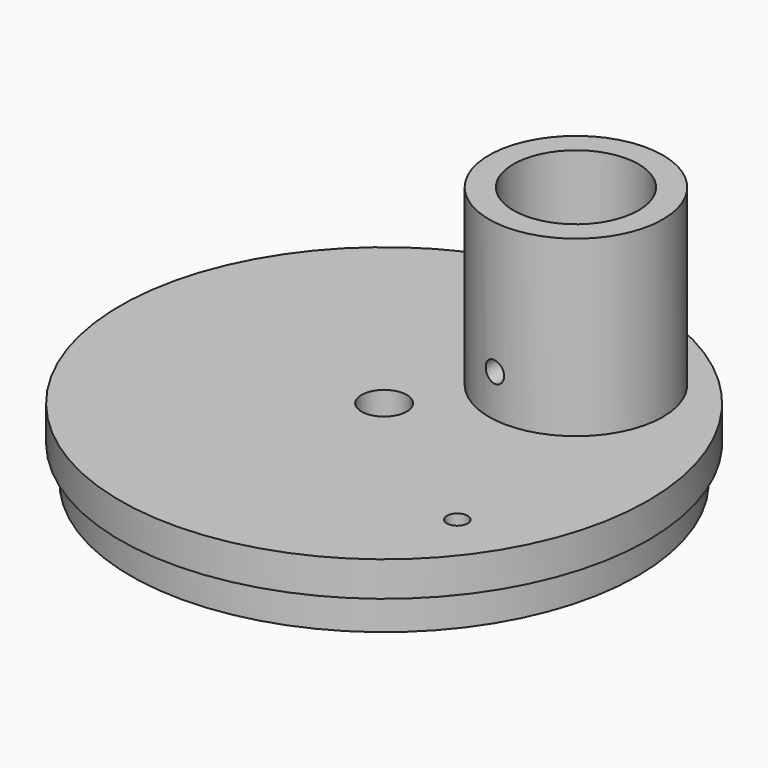
from build123d import *

# Parameters (mm, degrees)
F0_R      = 37.95
F1_DEPTH  = 5
F2_R      = 36.45
F3_DEPTH  = 5
F4_R      = 3.25
F5_DEPTH  = 10
F6_R      = 12.5
F7_DEPTH  = 25
F8_R      = 9
F9_DEPTH  = 25
F10_R     = 1.5
F11_DEPTH = 10
F12_R     = 1.5
F13_DEPTH = 10


with BuildPart() as f1:
    # F0 (on Top) → F1 (new body)
    with BuildSketch(Plane.XY):
        Circle(F0_R)
    extrude(amount=F1_DEPTH)

    # F2 (on face) → F3 (join)
    with BuildSketch(Plane(origin=(0, 0, 0), x_dir=(1, 0, 0), z_dir=(0, 0, -1))):
        Circle(F2_R)
    extrude(amount=F3_DEPTH)

    # F4 (on face) → F5 (cut)
    with BuildSketch(Plane.XY.offset(5)):
        Circle(F4_R)
    extrude(amount=-F5_DEPTH, mode=Mode.SUBTRACT)

    # F6 (on face) → F7 (join)
    with BuildSketch(Plane.XY.offset(5)):
        with Locations((14.016853, 16.956646)):
            Circle(F6_R)
    extrude(amount=F7_DEPTH)

    # F8 (on face) → F9 (cut)
    with BuildSketch(Plane.XY.offset(30)):
        with Locations((14.016853, 16.956646)):
            Circle(F8_R)
    extrude(amount=-F9_DEPTH, mode=Mode.SUBTRACT)

    # F10 (on face) → F11 (cut)
    with BuildSketch(Plane.XY.offset(5)):
        with Locations((24.087269, -16.958203)):
            Circle(F10_R)
    extrude(amount=-F11_DEPTH, mode=Mode.SUBTRACT)

    # F12 (on Front) → F13 (cut)
    with BuildSketch(Plane.XZ):
        with Locations((12.184734, 11.070393)):
            Circle(F12_R)
    extrude(amount=-F13_DEPTH, mode=Mode.SUBTRACT)


solid = f1.part
